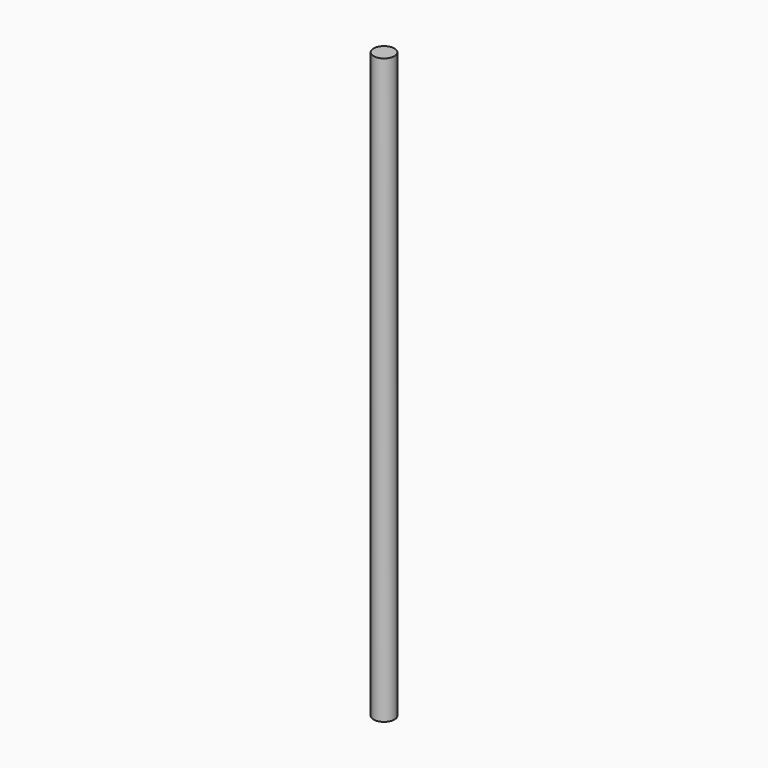
from build123d import *

# Parameters (mm, degrees)
F1_R     = 4.5
F2_DEPTH = 279
F0_R     = 5


with BuildPart() as f2:
    # F1 (on Top) → F2 (new body)
    with BuildSketch(Plane.XY):
        Circle(F1_R)
    extrude(amount=F2_DEPTH)


with BuildPart() as f2b:
    # F0 (on Top) → F2, piece 2 (new body)
    with BuildSketch(Plane.XY):
        Circle(F0_R)
    extrude(amount=F2_DEPTH)


solid = Compound([f2.part, f2b.part])
